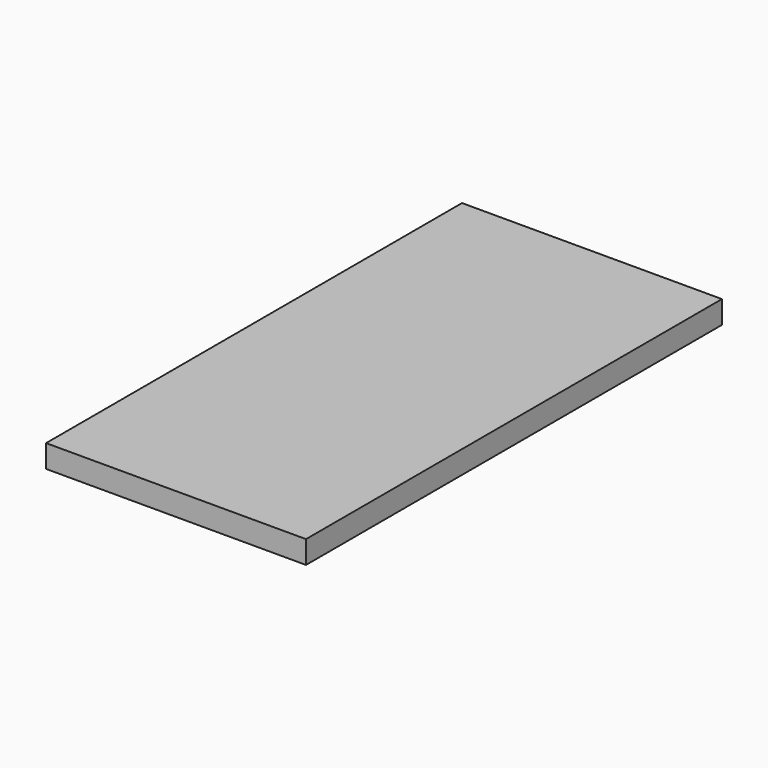
from build123d import *

# Parameters (mm, degrees)
F1_DEPTH = 3.5


with BuildPart() as f1:
    # F0 (on Top) → F1 (new body)
    with BuildSketch(Plane.XY):
        Polygon((20, 0), (20, 40), (-20, 40), (-20, -40), (20, -40), align=None)
        Polygon((17.5, 15), (17.5, 0), (17.5, -15), (12.5, -15), (12.5, 0), (12.5, 15), align=None, mode=Mode.SUBTRACT)
        Polygon((15, 0), (17.5, 0), (17.5, 15), (12.5, 15), (12.5, 0), align=None)
        Polygon((17.5, -15), (17.5, 0), (15, 0), (12.5, 0), (12.5, -15), align=None)
    extrude(amount=F1_DEPTH)


solid = f1.part
